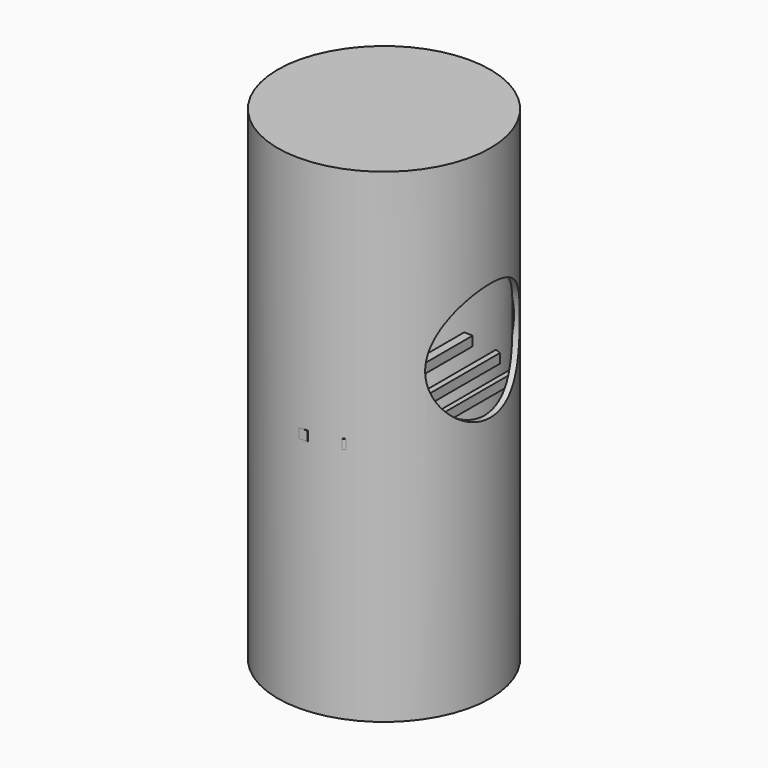
from build123d import *

# Parameters (mm, degrees)
F0_R      = 457.2
F1_DEPTH  = 25.4
F2_R      = 457.2
F2_R_2    = 431.8
F3_DEPTH  = 2032
F5_R      = 254
F6_DEPTH  = 101.6
F8_W      = 465.58969
F8_H      = 381
F9_DEPTH  = 193.04
F11_R     = 457.2
F11_R_2   = 431.8
F10_R     = 457.2
F10_R_2   = 431.8
F12_DEPTH = 25.4
F16_DEPTH = 40.64


with BuildPart() as f1:
    # F0 (on Top) → F1 (new body)
    with BuildSketch(Plane.XY):
        Circle(F0_R)
    extrude(amount=F1_DEPTH)

    # F2 (on face) → F3 (join)
    with BuildSketch(Plane.XY.offset(25.4)):
        Circle(F2_R)
        Circle(F2_R_2, mode=Mode.SUBTRACT)
    extrude(amount=F3_DEPTH)

    # F5 (on plane+point) → F6 (cut)
    with BuildSketch(Plane.YZ.offset(457.2)):
        with Locations((0, 1316.57275)):
            Circle(F5_R)
    extrude(amount=-F6_DEPTH, mode=Mode.SUBTRACT)

    # F8 (on plane+point) → F9 (cut)
    with BuildSketch(Plane.YZ.offset(-457.2)):
        with Locations((0, 698.5)):
            Rectangle(F8_W, F8_H)
    extrude(amount=F9_DEPTH, mode=Mode.SUBTRACT)

    # F11 (on face) + F10 (on face) → F12 (join)
    with BuildSketch(Plane.XY.offset(2057.4)):
        Circle(F11_R)
        Circle(F11_R_2, mode=Mode.SUBTRACT)
    with BuildSketch(Plane.XY.offset(2057.4)):
        Circle(F10_R)
        Circle(F10_R_2, mode=Mode.SUBTRACT)
        Circle(F10_R_2)
    extrude(amount=F12_DEPTH)


with BuildPart() as f16:
    # F15 (on plane+point) → F16 (new body)
    with BuildSketch(Plane.XY.offset(1061.877489)):
        Polygon((-272.10921, 369.50317), (-291.83504, 350.547403), (-291.83504, -350.547403), (-272.10921, -366.459101), align=None)
        Polygon((-120.079435, 433.43544), (-146.780938, 433.43544), (-146.780938, -428.254962), (-120.079435, -440.746367), align=None)
        Polygon((37.133172, 454.157472), (0, 454.157472), (0, -457.611144), (37.133172, -456.294864), align=None)
        Polygon((187.435329, 412.693441), (162.322432, 424.80129), (162.322432, -429.981798), (187.435329, -413.104594), align=None)
        Polygon((311.823279, 331.495732), (290.108204, 352.274239), (290.108204, -350.547403), (311.823279, -331.906885), align=None)
    extrude(amount=-F16_DEPTH)


solid = Compound([f1.part, f16.part])
